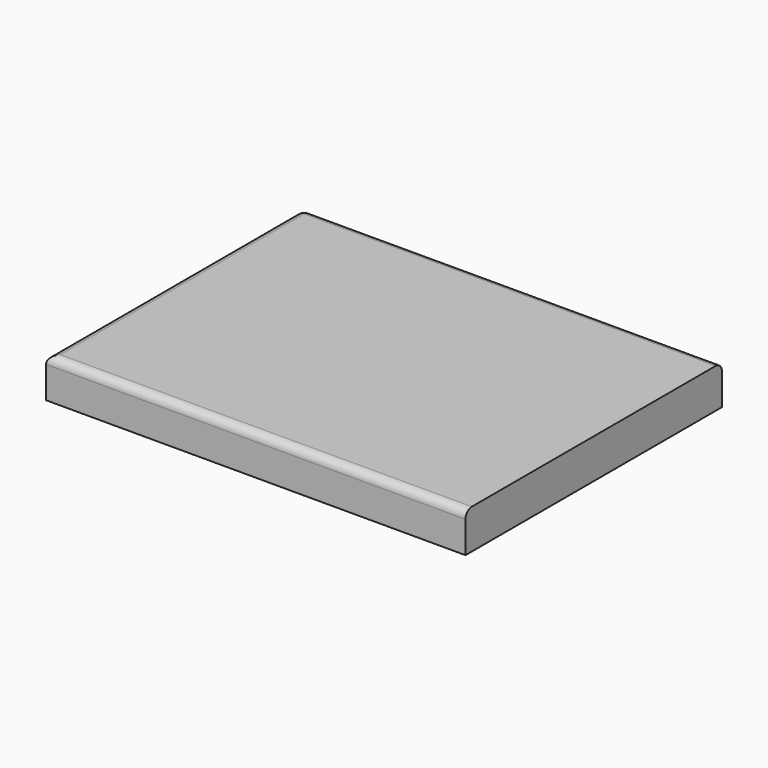
from build123d import *

# Parameters (mm, degrees)
F0_W     = 269.619048
F0_H     = 206.058934
F1_DEPTH = 25.4
F2_R     = 5.08
F3_R     = 5.08


with BuildPart() as f1:
    # F0 (on Top) → F1 (new body)
    with BuildSketch(Plane.XY):
        Rectangle(F0_W, F0_H)
    extrude(amount=F1_DEPTH)

    # F2
    f2_edges = [f1.edges().sort_by_distance(p)[0] for p in [
        (-134.809524, 0, 25.4),
        (0, -103.029467, 25.4),
    ]]
    fillet(f2_edges, radius=F2_R)

    # F3
    f3_edges = [f1.edges().sort_by_distance(p)[0] for p in [
        (2.54, 103.029467, 25.4),
    ]]
    fillet(f3_edges, radius=F3_R)


solid = f1.part
